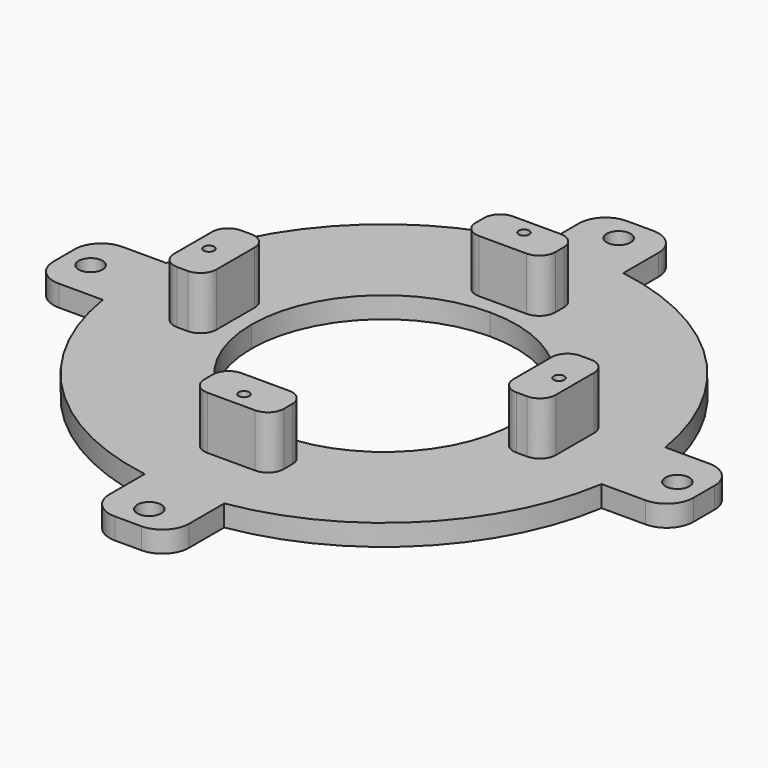
from build123d import *

# Parameters (mm, degrees)
F1_DEPTH = 4
F0_W     = 7.5
F0_H     = 8
F0_W_2   = 8
F0_H_2   = 7.5
F2_DEPTH = 14
F4_D     = 2
F4_DEPTH = 11
F4_TIP   = 0.600860619
F5_D     = 4.5
F5_DEPTH = 11
F5_TIP   = 1.3519363928
F6_R     = 5
F7_R     = 3


with BuildPart() as f1:
    # F0 (on Top) → F1 (new body)
    with BuildSketch(Plane.XY):
        with BuildLine():
            Line((28, 0), (25, 0))
            ThreePointArc((25, 0), (17.6776695297, -17.6776695297), (0, -25))
            Line((0, -25), (0, -28))
            Line((0, -28), (7.5, -28))
            Line((7.5, -28), (7.5, -36))
            Line((7.5, -36), (7.5, -47.0307412763))
            ThreePointArc((7.5, -47.0307412763), (33.675960454, -33.675960454), (47.0307412763, -7.5))
            Line((47.0307412763, -7.5), (36, -7.5))
            Line((36, -7.5), (28, -7.5))
            Line((28, -7.5), (28, 0))
        make_face()
        with BuildLine():
            ThreePointArc((0, 25), (17.6776695297, 17.6776695297), (25, 0))
            Line((25, 0), (28, 0))
            Line((28, 0), (28, 7.5))
            Line((28, 7.5), (36, 7.5))
            Line((36, 7.5), (47.0307412763, 7.5))
            ThreePointArc((47.0307412763, 7.5), (33.675960454, 33.675960454), (7.5, 47.0307412763))
            Line((7.5, 47.0307412763), (7.5, 36))
            Line((7.5, 36), (7.5, 28))
            Line((7.5, 28), (0, 28))
            Line((0, 28), (0, 25))
        make_face()
        with BuildLine():
            ThreePointArc((-25, 0), (-17.6776695297, 17.6776695297), (0, 25))
            Line((0, 25), (0, 28))
            Line((0, 28), (-7.5, 28))
            Line((-7.5, 28), (-7.5, 36))
            Line((-7.5, 36), (-7.5, 47.0307412763))
            ThreePointArc((-7.5, 47.0307412763), (-33.675960454, 33.675960454), (-47.0307412763, 7.5))
            Line((-47.0307412763, 7.5), (-36, 7.5))
            Line((-36, 7.5), (-28, 7.5))
            Line((-28, 7.5), (-28, 0))
            Line((-28, 0), (-25, 0))
        make_face()
        with BuildLine():
            Line((0, -28), (0, -25))
            ThreePointArc((0, -25), (-17.6776695297, -17.6776695297), (-25, 0))
            Line((-25, 0), (-28, 0))
            Line((-28, 0), (-28, -7.5))
            Line((-28, -7.5), (-36, -7.5))
            Line((-36, -7.5), (-47.0307412763, -7.5))
            ThreePointArc((-47.0307412763, -7.5), (-33.675960454, -33.675960454), (-7.5, -47.0307412763))
            Line((-7.5, -47.0307412763), (-7.5, -36))
            Line((-7.5, -36), (-7.5, -28))
            Line((-7.5, -28), (0, -28))
        make_face()
        with BuildLine():
            Line((36, 7.5), (36, 0))
            Line((36, 0), (47.625, 0))
            ThreePointArc((47.625, 0), (47.476202872, 3.7617530299), (47.0307412763, 7.5))
            Line((47.0307412763, 7.5), (36, 7.5))
        make_face()
        with BuildLine():
            Line((47.625, 0), (36, 0))
            Line((36, 0), (36, -7.5))
            Line((36, -7.5), (47.0307412763, -7.5))
            ThreePointArc((47.0307412763, -7.5), (47.476202872, -3.7617530299), (47.625, 0))
        make_face()
        with BuildLine():
            Line((-7.5, 36), (0, 36))
            Line((0, 36), (0, 47.625))
            ThreePointArc((0, 47.625), (-3.7617530299, 47.476202872), (-7.5, 47.0307412763))
            Line((-7.5, 47.0307412763), (-7.5, 36))
        make_face()
        with BuildLine():
            Line((0, 47.625), (0, 36))
            Line((0, 36), (7.5, 36))
            Line((7.5, 36), (7.5, 47.0307412763))
            ThreePointArc((7.5, 47.0307412763), (3.7617530299, 47.476202872), (0, 47.625))
        make_face()
        with BuildLine():
            Line((7.5, -36), (0, -36))
            Line((0, -36), (0, -47.625))
            ThreePointArc((0, -47.625), (3.7617530299, -47.476202872), (7.5, -47.0307412763))
            Line((7.5, -47.0307412763), (7.5, -36))
        make_face()
        with BuildLine():
            Line((0, -47.625), (0, -36))
            Line((0, -36), (-7.5, -36))
            Line((-7.5, -36), (-7.5, -47.0307412763))
            ThreePointArc((-7.5, -47.0307412763), (-3.7617530299, -47.476202872), (0, -47.625))
        make_face()
        with BuildLine():
            ThreePointArc((47.0307412763, 7.5), (47.476202872, 3.7617530299), (47.625, 0))
            ThreePointArc((47.625, 0), (47.476202872, -3.7617530299), (47.0307412763, -7.5))
            Line((47.0307412763, -7.5), (60.325, -7.5))
            Line((60.325, -7.5), (60.325, 7.5))
            Line((60.325, 7.5), (47.0307412763, 7.5))
        make_face()
        with BuildLine():
            Line((-36, -7.5), (-36, 0))
            Line((-36, 0), (-47.625, 0))
            ThreePointArc((-47.625, 0), (-47.476202872, -3.7617530299), (-47.0307412763, -7.5))
            Line((-47.0307412763, -7.5), (-36, -7.5))
        make_face()
        with BuildLine():
            Line((-47.625, 0), (-36, 0))
            Line((-36, 0), (-36, 7.5))
            Line((-36, 7.5), (-47.0307412763, 7.5))
            ThreePointArc((-47.0307412763, 7.5), (-47.476202872, 3.7617530299), (-47.625, 0))
        make_face()
        with BuildLine():
            ThreePointArc((-7.5, 47.0307412763), (-3.7617530299, 47.476202872), (0, 47.625))
            ThreePointArc((0, 47.625), (3.7617530299, 47.476202872), (7.5, 47.0307412763))
            Line((7.5, 47.0307412763), (7.5, 60.325))
            Line((7.5, 60.325), (-7.5, 60.325))
            Line((-7.5, 60.325), (-7.5, 47.0307412763))
        make_face()
        with BuildLine():
            ThreePointArc((7.5, -47.0307412763), (3.7617530299, -47.476202872), (0, -47.625))
            ThreePointArc((0, -47.625), (-3.7617530299, -47.476202872), (-7.5, -47.0307412763))
            Line((-7.5, -47.0307412763), (-7.5, -60.325))
            Line((-7.5, -60.325), (7.5, -60.325))
            Line((7.5, -60.325), (7.5, -47.0307412763))
        make_face()
        with BuildLine():
            ThreePointArc((-47.0307412763, -7.5), (-47.476202872, -3.7617530299), (-47.625, 0))
            ThreePointArc((-47.625, 0), (-47.476202872, 3.7617530299), (-47.0307412763, 7.5))
            Line((-47.0307412763, 7.5), (-60.325, 7.5))
            Line((-60.325, 7.5), (-60.325, -7.5))
            Line((-60.325, -7.5), (-47.0307412763, -7.5))
        make_face()
    extrude(amount=F1_DEPTH)

    # F0 (on Top) → F2 (join)
    with BuildSketch(Plane.XY):
        with Locations((3.75, 32)):
            Rectangle(F0_W, F0_H)
        with Locations((-3.75, 32)):
            Rectangle(F0_W, F0_H)
        with Locations((32, 3.75)):
            Rectangle(F0_W_2, F0_H_2)
        with Locations((32, -3.75)):
            Rectangle(F0_W_2, F0_H_2)
        with Locations((3.75, -32)):
            Rectangle(F0_W, F0_H)
        with Locations((-3.75, -32)):
            Rectangle(F0_W, F0_H)
        with Locations((-32, -3.75)):
            Rectangle(F0_W_2, F0_H_2)
        with Locations((-32, 3.75)):
            Rectangle(F0_W_2, F0_H_2)
    extrude(amount=F2_DEPTH)

    # F4
    with Locations(Plane.XY.offset(14)):
        with Locations((0, 33), (33, 0), (0, -33), (-33, 0)):
            Hole(F4_D / 2, depth=F4_DEPTH)
            with Locations((0, 0, -(F4_DEPTH + F4_TIP / 2))):  # 118° drill point
                Cone(0, F4_D / 2, F4_TIP, mode=Mode.SUBTRACT)

    # F5
    with Locations(Plane(origin=(0, 0, 0), x_dir=(1, 0, 0), z_dir=(0, 0, -1))):
        with Locations((0, -55.325), (55.325, 0), (0, 55.325), (-55.325, 0)):
            Hole(F5_D / 2, depth=F5_DEPTH)
            with Locations((0, 0, -(F5_DEPTH + F5_TIP / 2))):  # 118° drill point
                Cone(0, F5_D / 2, F5_TIP, mode=Mode.SUBTRACT)

    # F6
    f6_edges = [f1.edges().sort_by_distance(p)[0] for p in [
        (7.5, 60.325, 2),
        (-7.5, 60.325, 2),
        (-60.325, 7.5, 2),
        (-60.325, -7.5, 2),
        (7.5, -60.325, 2),
        (-7.5, -60.325, 2),
        (60.325, -7.5, 2),
        (60.325, 7.5, 2),
    ]]
    fillet(f6_edges, radius=F6_R)

    # F7
    f7_edges = [f1.edges().sort_by_distance(p)[0] for p in [
        (7.5, 28, 9),
        (7.5, 36, 9),
        (-7.5, 28, 9),
        (-7.5, 36, 9),
        (-36, -7.5, 9),
        (-28, -7.5, 9),
        (-36, 7.5, 9),
        (-28, 7.5, 9),
        (-7.5, -28, 9),
        (7.5, -28, 9),
        (36, 7.5, 9),
        (28, 7.5, 9),
        (36, -7.5, 9),
        (28, -7.5, 9),
        (7.5, -36, 9),
        (-7.5, -36, 9),
    ]]
    fillet(f7_edges, radius=F7_R)


solid = f1.part
